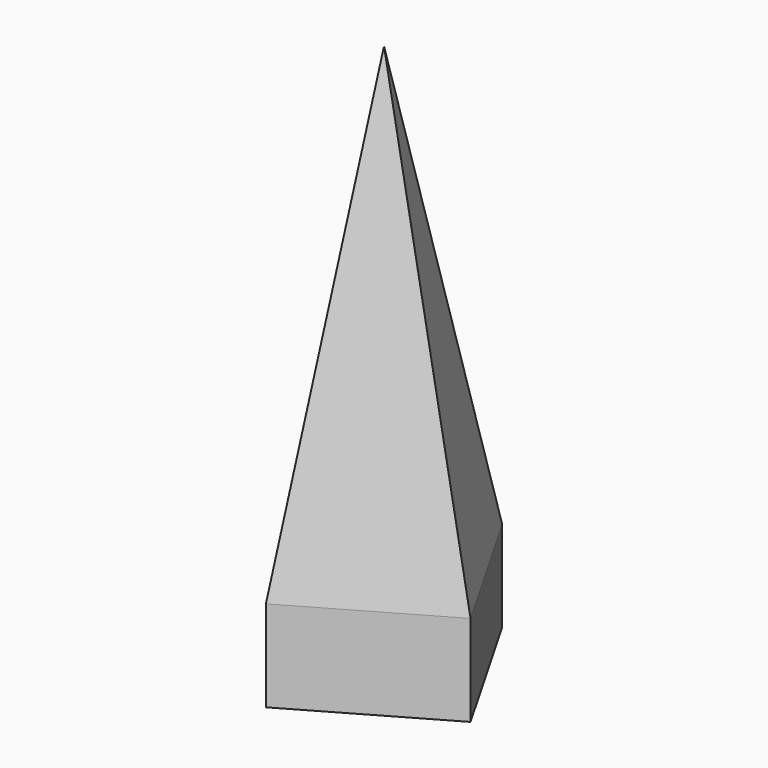
from build123d import *

# Parameters (mm, degrees)
F1_DEPTH = 25


with BuildPart() as f1:
    # F0 (on Top) → F1 (new body)
    with BuildSketch(Plane.XY):
        Polygon((30.266396, -8.176231), (8.176231, 30.266396), (-30.266396, 8.176231), (-8.176231, -30.266396), align=None)
    extrude(amount=F1_DEPTH)

    # F1_face (on face) → F4 section 0
    with BuildSketch(Plane.XY.offset(25), mode=Mode.PRIVATE) as f4_s0:
        Polygon((-8.176231, -30.266396), (30.266396, -8.176231), (8.176231, 30.266396), (-30.266396, 8.176231), align=None)
    loft([f4_s0.sketch, Vertex(0, 0, 150)])


solid = f1.part
